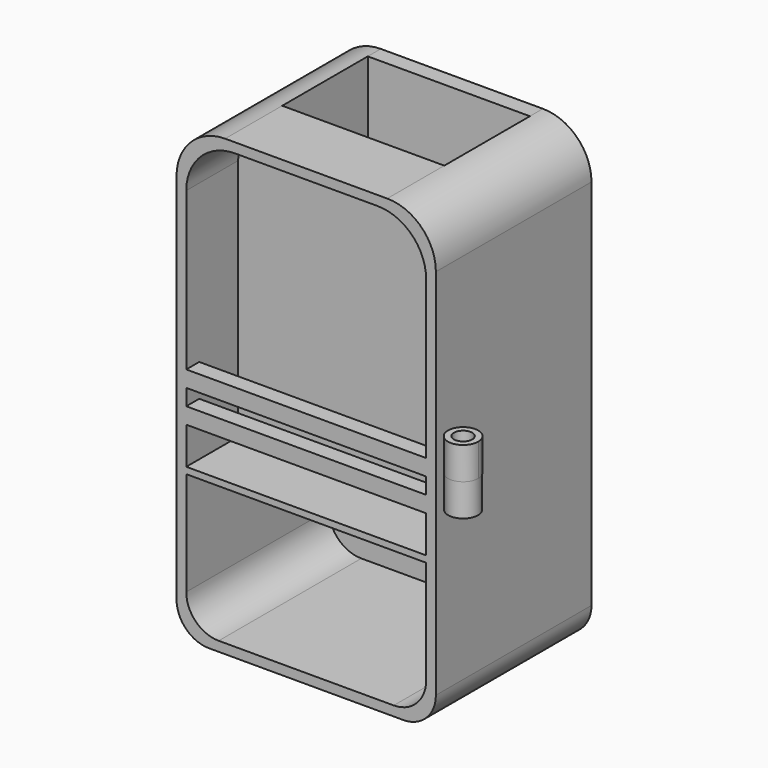
from build123d import *

# Parameters (mm, degrees)
F0_W      = 80
F0_H      = 140
F1_DEPTH  = 60
F2_R      = 15
F3_R      = 15
F4_R      = 10
F6_DEPTH  = 55
F8_DEPTH  = 20
F9_W      = 74
F9_H      = 2
F10_DEPTH = 20
F11_W     = 50
F11_H     = 35
F12_DEPTH = 93.1
F13_W     = 2
F13_H     = 93.1
F14_DEPTH = 50
F15_W     = 5
F15_H     = 5
F16_DEPTH = 74
F17_R     = 4.670153
F18_DEPTH = 10
F19_R     = 4.612239
F20_DEPTH = 10
F21_R     = 2.823736
F22_DEPTH = 30.5


with BuildPart() as f1:
    # F0 (on Front) → F1 (new body)
    with BuildSketch(Plane.XZ):
        Rectangle(F0_W, F0_H)
    extrude(amount=-F1_DEPTH)

    # F2
    f2_edges = [f1.edges().sort_by_distance(p)[0] for p in [
        (-40, 30, 70),
    ]]
    fillet(f2_edges, radius=F2_R)

    # F3
    f3_edges = [f1.edges().sort_by_distance(p)[0] for p in [
        (40, 30, 70),
    ]]
    fillet(f3_edges, radius=F3_R)

    # F4
    f4_edges = [f1.edges().sort_by_distance(p)[0] for p in [
        (-40, 30, -70),
        (40, 30, -70),
    ]]
    fillet(f4_edges, radius=F4_R)

    # F5 (on face) → F6 (cut)
    with BuildSketch(Plane.XZ):
        with BuildLine():
            Line((37, -57), (37, -25))
            Line((37, -25), (-37, -25))
            Line((-37, -25), (-37, -57))
            ThreePointArc((-37, -57), (-34.071068, -64.071068), (-27, -67))
            Line((-27, -67), (27, -67))
            ThreePointArc((27, -67), (34.071068, -64.071068), (37, -57))
        make_face()
    extrude(amount=-F6_DEPTH, mode=Mode.SUBTRACT)

    # F7 (on face) → F8 (cut)
    with BuildSketch(Plane.XZ):
        with BuildLine():
            ThreePointArc((37, 52), (32.606602, 62.606602), (22, 67))
            Line((22, 67), (-22, 67))
            ThreePointArc((-22, 67), (-32.606602, 62.606602), (-37, 52))
            Line((-37, 52), (-37, -25))
            Line((-37, -25), (37, -25))
            Line((37, -25), (37, 52))
        make_face()
    extrude(amount=-F8_DEPTH, mode=Mode.SUBTRACT)

    # F9 (on face) → F10 (join)
    with BuildSketch(Plane.XZ.offset(-20)):
        with Locations((0, -24)):
            Rectangle(F9_W, F9_H)
    extrude(amount=F10_DEPTH)

    # F11 (on face) → F12 (cut)
    with BuildSketch(Plane.XY.offset(70)):
        with Locations((0, 37.5)):
            Rectangle(F11_W, F11_H)
    extrude(amount=-F12_DEPTH, mode=Mode.SUBTRACT)

    # F13 (on face) → F14 (join)
    with BuildSketch(Plane.YZ.offset(-25)):
        with Locations((21, 23.45)):
            Rectangle(F13_W, F13_H)
    extrude(amount=F14_DEPTH)

    # F15 (on face) → F16 (join)
    with BuildSketch(Plane.YZ.offset(-37)):
        with Locations((2.5, 0.932154)):
            Rectangle(F15_W, F15_H)
        with Locations((2.5, -9.067846)):
            Rectangle(F15_W, F15_H)
    extrude(amount=F16_DEPTH)

    # F17 (on Top) → F18 (join)
    with BuildSketch(Plane.XY):
        with Locations((44.670153, 4.670153)):
            Circle(F17_R)
    extrude(amount=F18_DEPTH)

    # F19 (on face) → F20 (join)
    with BuildSketch(Plane(origin=(0, 0, 0), x_dir=(1, 0, 0), z_dir=(0, 0, -1))):
        with Locations((44.670153, -4.670153)):
            Circle(F19_R)
    extrude(amount=F20_DEPTH)

    # F21 (on face) → F22 (cut)
    with BuildSketch(Plane.XY.offset(10)):
        with Locations((44.670153, 4.670153)):
            Circle(F21_R)
    extrude(amount=-F22_DEPTH, mode=Mode.SUBTRACT)


solid = f1.part
